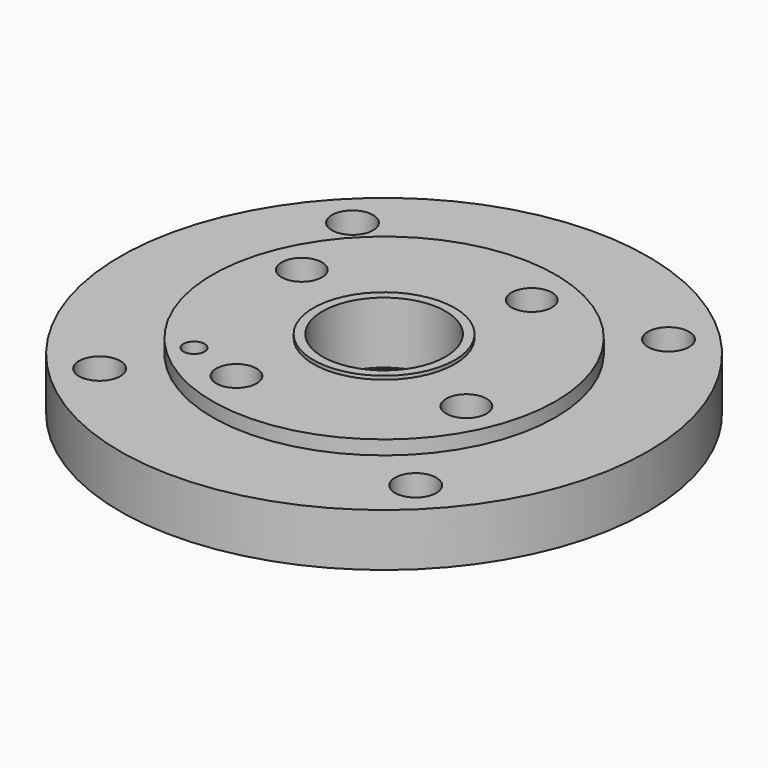
from build123d import *

# Parameters (mm, degrees)
SKETCH001_R           = 17.5
POCKET_DEPTH          = 24
POLARPATTERN_COUNT    = 4
SKETCH002_R           = 11.5
POCKET001_DEPTH       = 868.29203
POLARPATTERN001_COUNT = 4
SKETCH003_R           = 6
SKETCH003_R_2         = 11.75
POCKET002_DEPTH       = 40.001


with BuildPart() as part:
    # Sketch → Revolution (revolve)
    with BuildSketch(Plane.XZ):
        Polygon((35, 5), (35, 40), (40.15, 40), (40.15, 38), (97.5, 38), (97.5, 30), (150, 30), (150, 0), (43.5, 0), (43.5, 5), align=None)
    revolve(axis=Axis((0, 0, 0), (0, 0, 1)))

    # Sketch001 → Pocket (cut)
    with BuildSketch(Plane.XY):
        with Locations((28.338059, 69.440294)):
            Circle(SKETCH001_R)
    pocket = extrude(amount=POCKET_DEPTH, mode=Mode.SUBTRACT)

    # PolarPattern: Pocket ×4 about axis
    polarpattern_axis = Axis((0, 0, 0), (0, 0, 1))
    for i in range(1, POLARPATTERN_COUNT):
        add(pocket.rotate(polarpattern_axis, i * 360 / POLARPATTERN_COUNT), mode=Mode.SUBTRACT)

    # Sketch002 (on Face15 of PolarPattern) → Pocket001 (cut, through all)
    with BuildSketch(Plane(origin=(0, 0, 24), x_dir=(1, 0, 0), z_dir=(0, 0, -1))):
        with Locations((-28.338059, 69.440294)):
            Circle(SKETCH002_R)
    pocket001 = extrude(amount=-POCKET001_DEPTH, mode=Mode.SUBTRACT)

    # PolarPattern001: Pocket001 ×4 about axis
    polarpattern001_axis = Axis((0, 0, 24), (0, 0, -1))
    for i in range(1, POLARPATTERN001_COUNT):
        add(pocket001.rotate(polarpattern001_axis, i * 360 / POLARPATTERN001_COUNT), mode=Mode.SUBTRACT)

    # Sketch003 (on Face6 of PolarPattern001) → Pocket002 (cut, through all)
    with BuildSketch(Plane(origin=(0, 0, 0), x_dir=(1, 0, 0), z_dir=(0, 0, -1))):
        with Locations((-60, 60)):
            Circle(SKETCH003_R)
        with Locations((-89.802561, 89.802561)):
            Circle(SKETCH003_R_2)
        with Locations((-89.802561, -89.802561)):
            Circle(SKETCH003_R_2)
        with Locations((89.802561, -89.802561)):
            Circle(SKETCH003_R_2)
        with Locations((89.802561, 89.802561)):
            Circle(SKETCH003_R_2)
    extrude(amount=-POCKET002_DEPTH, mode=Mode.SUBTRACT)


solid = part.part
